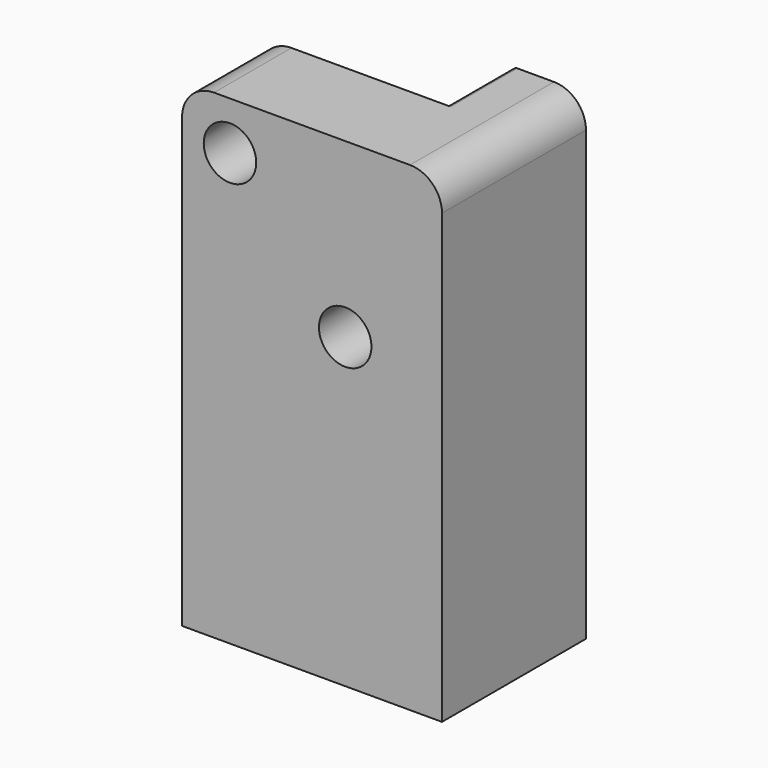
from build123d import *

# Parameters (mm, degrees)
F0_W      = 20.6375
F0_H      = 14.2875
F1_DEPTH  = 38.1
F2_R      = 4
F3_DEPTH  = 19.05
F6_DEPTH  = 22.61794
F7_R      = 1.651
F8_DEPTH  = 6.604
F9_R      = 2.0828
F10_DEPTH = 25.4
F11_R     = 4.064
F12_DEPTH = 25.4
F13_R     = 0.381
F14_R     = 1.9304
F15_DEPTH = 15.3176
F16_R     = 2.54


with BuildPart() as f1:
    # F0 (on Top) → F1 (new body)
    with BuildSketch(Plane.XY):
        with Locations((-2.38125, -0.79375)):
            Rectangle(F0_W, F0_H)
    extrude(amount=F1_DEPTH)

    # F2 (on Top) → F3 (cut)
    with BuildSketch(Plane.XY):
        Circle(F2_R)
    extrude(amount=F3_DEPTH, mode=Mode.SUBTRACT)

    # F5 (on offset) → F6 (cut)
    with BuildSketch(Plane.XZ.offset(0.254)):
        Polygon((-24.257, 41.275), (-24.257, 2.9434311857), (3.8757620392, 31.0761932248), (1.143, 41.275), align=None)
    extrude(amount=-F6_DEPTH, mode=Mode.SUBTRACT)

    # F7 (on face) → F8 (cut, through all)
    with BuildSketch(Plane(origin=(0, 6.35, 0), x_dir=(-1, 0, 0), z_dir=(0, 1, 0))):
        with Locations((-2.7197583304, 31.9964899328)):
            Circle(F7_R)
    extrude(amount=-F8_DEPTH, mode=Mode.SUBTRACT)

    # F9 (on face) → F10 (cut)
    with BuildSketch(Plane(origin=(0, 6.35, 0), x_dir=(-1, 0, 0), z_dir=(0, 1, 0))):
        with Locations((-0.254, 24.4011441045)):
            Circle(F9_R)
        with Locations((8.8952870812, 34.29)):
            Circle(F9_R)
    extrude(amount=-F10_DEPTH, mode=Mode.SUBTRACT)

    # F11 (on face) → F12 (cut)
    with BuildSketch(Plane(origin=(0, -0.254, 0), x_dir=(-1, 0, 0), z_dir=(0, 1, 0))):
        with Locations((-0.254, 24.4011441045)):
            Circle(F11_R)
    extrude(amount=F12_DEPTH, mode=Mode.SUBTRACT)

    # F13
    f13_edges = [f1.edges().sort_by_distance(p)[0] for p in [
        (-3.70727, 3.048, 23.493161),
        (1.161983, 3.048, 28.362414),
        (1.993739, 3.048, 38.1),
    ]]
    fillet(f13_edges, radius=F13_R)

    # F14 (on face) → F15 (cut)
    with BuildSketch(Plane(origin=(-12.7, 0, 0), x_dir=(0, -1, 0), z_dir=(-1, 0, 0))):
        with Locations((0, 9.525)):
            Circle(F14_R)
    extrude(amount=-F15_DEPTH, mode=Mode.SUBTRACT)

    # F16
    f16_edges = [f1.edges().sort_by_distance(p)[0] for p in [
        (-12.7, -4.09575, 38.1),
        (7.9375, -0.79375, 38.1),
    ]]
    fillet(f16_edges, radius=F16_R)


solid = f1.part
